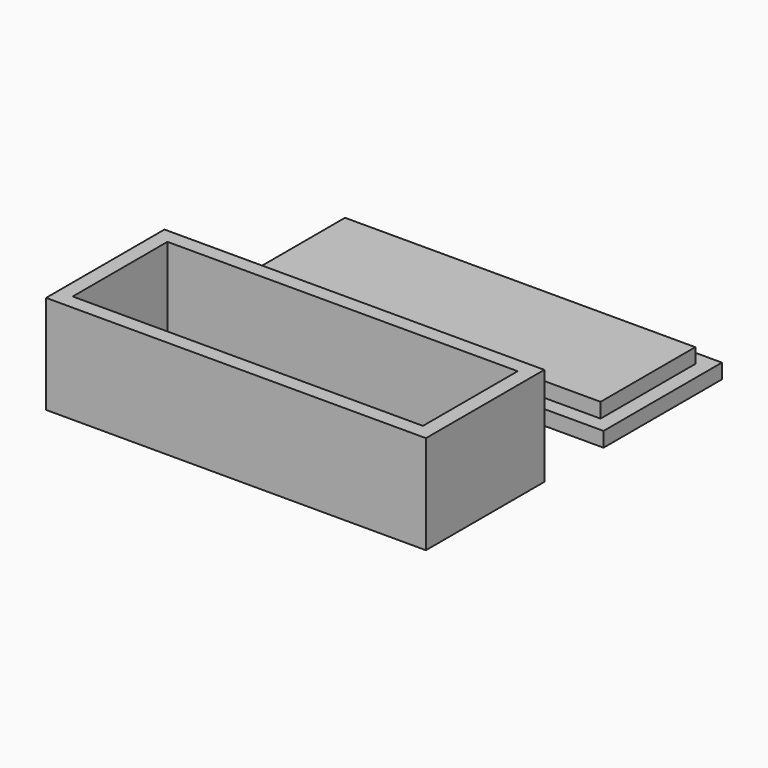
from build123d import *

# Parameters (mm, degrees)
F0_W     = 77
F0_H     = 30
F0_W_2   = 71
F0_H_2   = 24
F1_DEPTH = 20
F2_DEPTH = 3
F3_DEPTH = 6


with BuildPart() as f1:
    # F0 (on Top) → F1 (new body)
    with BuildSketch(Plane.XY):
        with Locations((0, -15)):
            Rectangle(F0_W, F0_H)
        with Locations((0, -15)):
            Rectangle(F0_W_2, F0_H_2, mode=Mode.SUBTRACT)
    extrude(amount=F1_DEPTH)

    # F0 (on Top) → F2 (join)
    with BuildSketch(Plane.XY):
        with Locations((0, -15)):
            Rectangle(F0_W_2, F0_H_2)
        with Locations((0, 30)):
            Rectangle(F0_W, F0_H)
        with Locations((0, 30)):
            Rectangle(F0_W_2, F0_H_2, mode=Mode.SUBTRACT)
    extrude(amount=F2_DEPTH)

    # F0 (on Top) → F3 (join)
    with BuildSketch(Plane.XY):
        with Locations((0, 30)):
            Rectangle(F0_W_2, F0_H_2)
    extrude(amount=F3_DEPTH)


solid = f1.part
